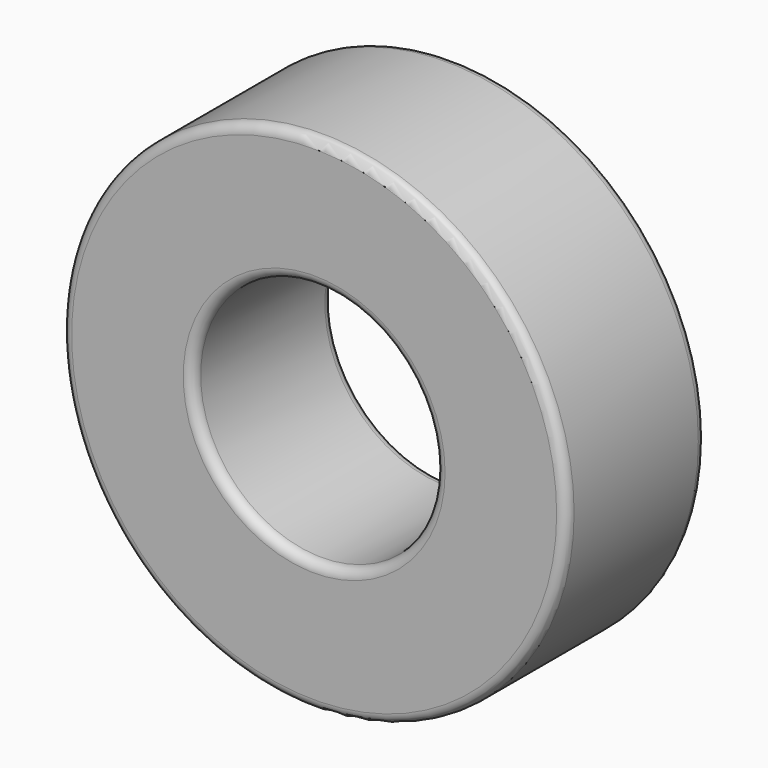
from build123d import *

# Parameters (mm, degrees)
F0_R     = 26
F0_R_2   = 12.5
F1_DEPTH = 18
F2_R     = 1
F3_R     = 1


with BuildPart() as f1:
    # F0 (on Front) → F1 (new body)
    with BuildSketch(Plane.XZ):
        Circle(F0_R)
        Circle(F0_R_2, mode=Mode.SUBTRACT)
    extrude(amount=F1_DEPTH)

    # F2
    f2_edges = [f1.edges().sort_by_distance(p)[0] for p in [
        (-26, -18, 0),
        (-26, 0, 0),
    ]]
    fillet(f2_edges, radius=F2_R)

    # F3
    f3_edges = [f1.edges().sort_by_distance(p)[0] for p in [
        (-12.5, -18, 0),
        (-12.5, 0, 0),
    ]]
    fillet(f3_edges, radius=F3_R)


solid = f1.part
